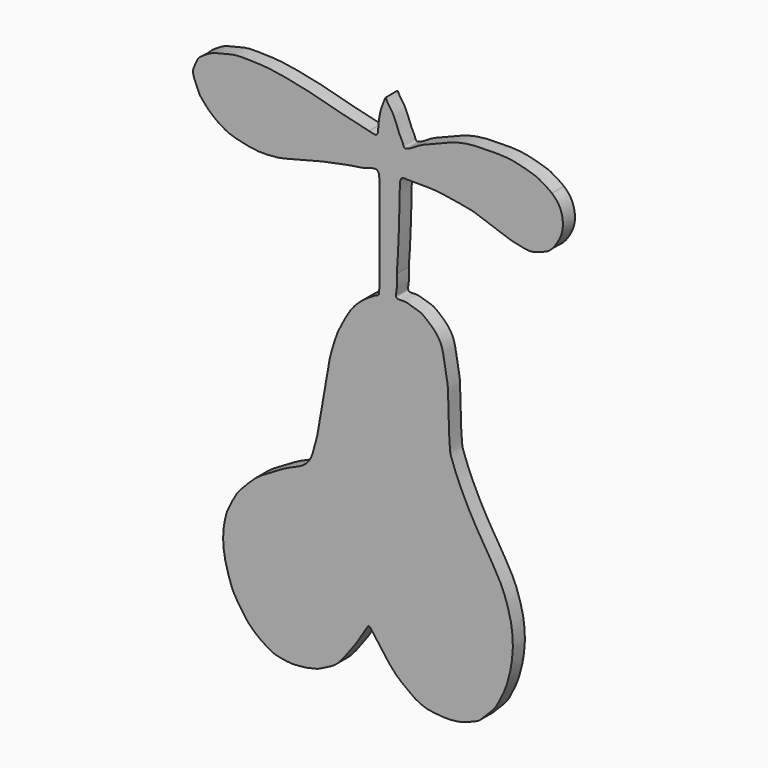
from build123d import *

# Parameters (mm, degrees)
F1_DEPTH = 4


with BuildPart() as f1:
    # F0 (on Front) → F1 (new body)
    with BuildSketch(Plane.XZ):
        with BuildLine():
            add(Edge.make_bspline(
                [(-20.3525163233, -65.572924912), (-21.2269080513, -67.035812522), (-23.0129517633, -70.0239254396), (-26.3838308621, -74.6036030205), (-28.4533170863, -76.99354181), (-30.129493912, -78.1749435522), (-32.6713598664, -79.3382019684), (-33.7340626565, -79.9346314373), (-35.1594680464, -80.1870957155), (-36.848809406, -80.6812262889), (-38.5256721939, -80.735568656), (-39.0806601057, -80.8060801583), (-40.5495963708, -80.9692381037), (-43.2459056286, -80.5970588273), (-45.8821005417, -80.0052197219), (-47.441864217, -78.8457646047), (-48.5507903109, -78.2474065294), (-50.2009067919, -76.9545795798), (-51.2543770189, -75.9906663898), (-52.3499442447, -74.8877447632), (-53.5667475578, -73.1819327847), (-55.0481147435, -70.9651220929), (-56.5159561894, -68.5805071267), (-57.6734841987, -64.7426508598), (-58.4131746522, -62.0549821015), (-58.753613354, -59.5179500258), (-58.8816269503, -56.8724804135), (-58.6870612474, -54.6289986927), (-58.2305409065, -52.4422224403), (-57.8257158798, -50.7353178809), (-56.4238585645, -47.9623132386), (-55.2834086634, -45.8738377041), (-54.1943656234, -44.5471284285), (-52.5268994383, -42.8449290384), (-50.4854079375, -40.7172469551), (-48.2509347271, -39.1891154353), (-45.5613342853, -37.6114432737), (-43.3585521749, -36.3052179775), (-41.3447005978, -35.2722969933), (-39.7514532181, -34.5776032593), (-38.9517651741, -34.2362034962), (-38.5848358274, -34.0795554221)],
                knots=[0, 0, 0, 0, 0.0390285125, 0.0797201382, 0.1094448365, 0.1338684942, 0.1619666505, 0.180796327, 0.2006916354, 0.2239016956, 0.2454558886, 0.2580140325, 0.27783861, 0.306362666, 0.3346040331, 0.3576586788, 0.3768967396, 0.4012525194, 0.4218009642, 0.4426070351, 0.4672186549, 0.4948560368, 0.5235847937, 0.5575152493, 0.5861212037, 0.6131215554, 0.6407209367, 0.6664379074, 0.6914021862, 0.7140757325, 0.7439913624, 0.7703700696, 0.7922869805, 0.8184139006, 0.8476453477, 0.8757988265, 0.9057574868, 0.9331854321, 0.9587333468, 0.9810651839, 1, 1, 1, 1], degree=3))
            add(Edge.make_bspline(
                [(-7.8284507617, -78.4098058939), (-9.6478385317, -77.118361504), (-13.0271705668, -74.7196318487), (-15.9224872323, -70.8138846551), (-17.8218314048, -68.3352085128), (-19.2710515336, -66.1535776554), (-20.0110210456, -65.3044652578), (-20.2594440298, -65.4997579976), (-20.3525163233, -65.572924912)],
                knots=[0, 0, 0, 0, 0.2635484655, 0.4895150924, 0.6741122887, 0.8426726025, 0.9410568963, 1, 1, 1, 1], degree=3))
            add(Edge.make_bspline(
                [(-12.6883387566, 19.3276256323), (-12.6153507897, 18.1581391895), (-12.4857394235, 16.0813758256), (-13.2907794865, 13.2073614121), (-10.4213789236, 13.8221921581), (-8.6792033369, 12.992691898), (-6.308914205, 12.5477231233), (-4.8434270445, 11.3318180635), (-3.0611476537, 9.9273418788), (-0.686788022, 7.1371310211), (-0.0289901223, 2.8324767468), (0.5294735834, 0.1082457785), (0.9521063334, -2.7587377566), (0.9649726739, -5.0001016472), (1.1605412594, -13.3361369744), (1.3827611498, -15.9923778715), (1.5159103355, -18.155901779), (2.0712831418, -19.4194711816), (3.1431227542, -22.6435667594), (4.844046861, -26.2171374809), (6.4526982755, -29.5314374342), (8.255892227, -32.7586517155), (10.8022780607, -37.0602186199), (11.7882205826, -38.4783874158), (15.0849615316, -44.0572586938), (16.2317881669, -47.0329243786), (17.1579249778, -50.0563043994), (17.7924853651, -52.7041903961), (18.073044907, -55.0254923882), (18.2535777996, -57.9055837028), (17.8599136018, -61.9910160568), (17.2308621144, -64.8417027291), (16.3250705233, -68.1611040117), (14.7110065224, -71.4768233738), (13.3535856722, -74.0272085787), (10.9584360701, -76.181037275), (9.3533412133, -78.2422042865), (5.9041068791, -79.3963018808), (3.5529190201, -80.2119301918), (-0.0296324806, -80.4048604343), (-2.5685124063, -80.0846341865), (-5.21029589, -79.7970033321), (-6.9356497325, -78.8828456342), (-7.8284507617, -78.4098058939)],
                knots=[0, 0, 0, 0, 0.0260443506, 0.0462493203, 0.0663827843, 0.0864707864, 0.1076963213, 0.1266454159, 0.1474649984, 0.1739238523, 0.2028319267, 0.2265360308, 0.2492021974, 0.2710575846, 0.3110062883, 0.3349362052, 0.3542418485, 0.3705211456, 0.395869329, 0.4241402961, 0.4506127046, 0.478198602, 0.508543171, 0.5280345203, 0.5627926727, 0.5887683565, 0.6130829349, 0.636078286, 0.6571357515, 0.6809200799, 0.709107699, 0.7331270949, 0.7588655166, 0.7856566412, 0.8094369285, 0.8340594534, 0.8566312286, 0.8825408539, 0.9050726972, 0.9310727152, 0.9536262114, 0.9760034347, 1, 1, 1, 1], degree=3))
            add(Edge.make_bspline(
                [(-4.5200767927, 42.3018932343), (-5.1932046929, 42.3104650417), (-6.6700179361, 42.3292712132), (-9.6129595482, 42.1807612052), (-12.0978573114, 42.707756122), (-11.8832870461, 37.6472858328), (-11.98897259, 35.5589389929), (-12.0743026473, 31.4154706982), (-12.1259967487, 29.3265691062), (-12.4145332254, 22.8098166042), (-12.6060636152, 20.3739805151), (-12.6883387566, 19.3276256323)],
                knots=[0, 0, 0, 0, 0.0911184459, 0.1999098947, 0.2828199049, 0.4091596041, 0.5091316014, 0.6300399943, 0.7255507698, 0.8821056584, 1, 1, 1, 1], degree=3))
            add(Edge.make_bspline(
                [(28.5180322826, 51.659386605), (28.9742942373, 51.2282171565), (29.8073552017, 50.4409710735), (30.4918161627, 49.4290672982), (31.1040855747, 47.9727102009), (31.4420356736, 46.4309273482), (31.5111682367, 44.6655335225), (31.1143182921, 42.6783514668), (30.1422826365, 40.7512454639), (29.0658163246, 39.1497297366), (28.1345672444, 38.181519429), (27.3571112104, 37.6476714043), (25.9021057221, 37.0131122495), (24.0668632162, 36.3019916378), (22.026623022, 36.1060085011), (19.625028637, 36.689142696), (17.9636292176, 36.9359835025), (15.5592076722, 37.883182241), (12.8812963216, 38.6693543253), (9.6442187674, 39.912667006), (7.1569370388, 40.8516031882), (1.9929517967, 41.5612645493), (-1.747250835, 42.24787611), (-3.6566431564, 42.2850727765), (-4.5200767927, 42.3018932343)],
                knots=[0, 0, 0, 0, 0.0413548683, 0.0755073399, 0.1139875109, 0.1530569165, 0.1940123395, 0.2380001257, 0.2837949528, 0.3271134194, 0.3623644309, 0.3920046347, 0.4306863237, 0.4743273568, 0.5188490979, 0.5670039788, 0.6074863312, 0.6563847544, 0.7092562273, 0.7660861178, 0.8173699541, 0.8878510353, 0.9492858606, 1, 1, 1, 1], degree=3))
            add(Edge.make_bspline(
                [(-20.0580265373, 50.4009574652), (-19.4341840416, 50.2262159631), (-18.4285039714, 49.9445197861), (-17.6747879637, 50.3323487698), (-17.6341150963, 52.1088996991), (-17.4488241349, 53.9011658903), (-16.9857648752, 56.4102684681), (-16.4795719778, 57.6489628855), (-15.8875292652, 59.1610575742), (-15.6730918241, 59.8447241504), (-15.3358865287, 58.8534890705), (-14.3464364109, 57.6194050256), (-13.6521932797, 56.4387580939), (-13.1051987102, 55.3030187678), (-12.4937645769, 53.4054696461), (-11.7168545394, 51.7344054866), (-11.0138094198, 50.5143711168), (-10.8072730484, 48.9514315711), (-7.9829028125, 50.4969254153), (-6.3425677091, 51.6848453648), (-1.3866620505, 53.5078695379), (4.4312421474, 56.0264670209), (10.9117611885, 56.1859548275), (14.445268216, 56.2252906388), (17.546781244, 55.9956403582), (20.0620329288, 55.5434122019), (22.9399343567, 54.643297037), (24.4755649201, 54.2245960538), (26.7163128801, 53.0096314157), (27.9245729139, 52.1041370094), (28.5180322826, 51.659386605)],
                knots=[0, 0, 0, 0, 0.0320538737, 0.0516732062, 0.082777016, 0.1173961468, 0.1560490086, 0.1855536523, 0.2172463938, 0.2327935932, 0.2534145655, 0.2856224386, 0.3143214464, 0.3417837228, 0.3765231462, 0.4102464924, 0.4399752163, 0.464861659, 0.5039101301, 0.5410712528, 0.596141307, 0.6596408203, 0.7217349411, 0.7681630885, 0.8106073058, 0.8506356311, 0.8926880326, 0.9241564897, 0.9627480505, 1, 1, 1, 1], degree=3))
            add(Edge.make_bspline(
                [(-65.0664493442, 44.2032366991), (-65.6012897489, 45.3635294303), (-66.5299660746, 47.3782171405), (-67.0088025412, 49.4176250531), (-66.2260547889, 50.9432355158), (-65.5793479087, 52.719654029), (-64.0222374369, 53.7910117325), (-61.8459260046, 55.1546628328), (-59.4611447202, 55.7176207475), (-55.4005317653, 56.8173188092), (-51.8693709165, 56.6205618586), (-48.1912409091, 56.5697143778), (-44.836291067, 56.1700820795), (-41.5710937271, 55.5880912949), (-36.988918896, 54.690667387), (-30.9859517694, 53.1661764614), (-27.4943397418, 52.1195156776), (-21.2067817185, 50.6366292772), (-20.3188045546, 50.4544571393), (-20.0580265373, 50.4009574652)],
                knots=[0, 0, 0, 0, 0.0629246277, 0.1092599054, 0.1516399029, 0.196431083, 0.2416112363, 0.2940061517, 0.3464911794, 0.4139554899, 0.4771007979, 0.5405471663, 0.6012816827, 0.6610783071, 0.733665566, 0.8151618082, 0.8828121351, 0.9655846791, 1, 1, 1, 1], degree=3))
            add(Edge.make_bspline(
                [(-17.3331573606, 15.6992021948), (-17.334646011, 19.1807904454), (-17.3374412155, 25.7180878457), (-17.3196960218, 33.3099229275), (-17.3657749118, 38.5345104426), (-17.2640520695, 40.2060006148), (-17.6267488839, 42.7265601863), (-21.1584490889, 41.1703612598), (-23.9078598242, 41.0297600294), (-30.0153933815, 39.7022184271), (-33.4134619283, 39.0807190158), (-37.5689015099, 37.8709261302), (-40.5592815576, 37.1789509057), (-43.7743874845, 36.2583393567), (-47.0954069311, 36.0370433696), (-50.2492258195, 36.0046250972), (-54.7490232505, 36.9471033211), (-57.9030727736, 37.8734067569), (-60.8850394877, 39.8683057581), (-63.0053446898, 41.6770991179), (-64.3630677103, 43.3411558846), (-65.0664493442, 44.2032366991)],
                knots=[0, 0, 0, 0, 0.0855783573, 0.160688494, 0.2201845312, 0.2558511902, 0.2911642555, 0.3375011308, 0.3850680209, 0.4509687973, 0.5027188515, 0.5574536565, 0.6049814136, 0.6536930158, 0.702241666, 0.7502845805, 0.8074175567, 0.8567522849, 0.9066965968, 0.9516632633, 1, 1, 1, 1], degree=3))
            add(Edge.make_bspline(
                [(-18.5818187892, 12.3479822651), (-18.1952756551, 12.4557100478), (-17.4172071329, 12.6725541444), (-17.3343774762, 13.9624568364), (-17.3335954122, 15.0756677874), (-17.3331573606, 15.6992021948)],
                knots=[0, 0, 0, 0, 0.3027860848, 0.6094748573, 1, 1, 1, 1], degree=3))
            add(Edge.make_bspline(
                [(-38.5848358274, -34.0795554221), (-38.0749678109, -33.8066073183), (-36.9495810593, -33.2041530164), (-35.2777534291, -31.115089895), (-34.3742938787, -27.5209264291), (-33.5855093112, -24.6746222344), (-32.7760562323, -18.9120415621), (-32.0063546478, -14.9871597464), (-30.6002930279, -5.9253127345), (-29.4412954939, -2.5416487172), (-28.5253439808, 0.542921503), (-27.3593315271, 2.6615093463), (-25.9980229283, 5.3668337146), (-24.3965857911, 7.7538742621), (-22.5827580327, 9.6625173655), (-20.2327744214, 11.3675209777), (-19.0926018083, 12.0446409961), (-18.5818187892, 12.3479822651)],
                knots=[0, 0, 0, 0, 0.0487151143, 0.1075245798, 0.17662482, 0.2410043316, 0.3263712183, 0.4035348878, 0.5124710791, 0.5834491837, 0.6465709332, 0.7034871171, 0.7666837351, 0.8284897555, 0.8879503721, 0.9498031732, 1, 1, 1, 1], degree=3))
        make_face()
    extrude(amount=F1_DEPTH)


solid = f1.part
